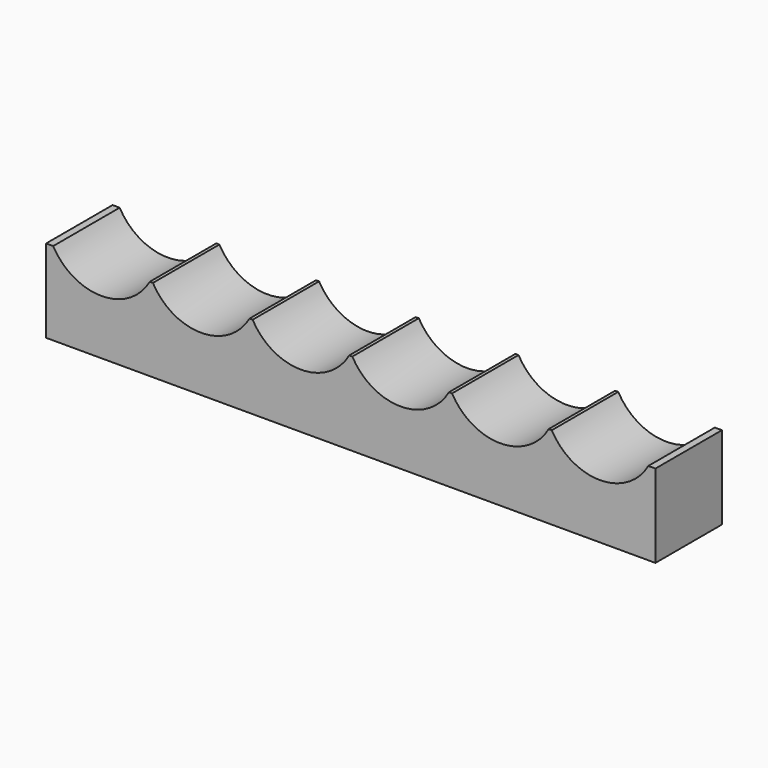
from build123d import *

# Parameters (mm, degrees)
F1_DEPTH = 19.05


with BuildPart() as f1:
    # F0 (on Front) → F1 (new body)
    with BuildSketch(Plane.XZ):
        with BuildLine():
            Line((-56.790875, 9.525), (-58.42, 9.525))
            Line((-58.42, 9.525), (-58.42, -9.525))
            Line((-58.42, -9.525), (81.28, -9.525))
            Line((81.28, -9.525), (81.28, 9.525))
            Line((81.28, 9.525), (79.650875, 9.525))
            ThreePointArc((79.650875, 9.525), (68.58, 3.048), (57.509125, 9.525))
            Line((57.509125, 9.525), (56.790875, 9.525))
            ThreePointArc((56.790875, 9.525), (45.72, 3.048), (34.649125, 9.525))
            Line((34.649125, 9.525), (33.930875, 9.525))
            ThreePointArc((33.930875, 9.525), (22.86, 3.048), (11.789125, 9.525))
            Line((11.789125, 9.525), (11.070875, 9.525))
            ThreePointArc((11.070875, 9.525), (0, 3.048), (-11.070875, 9.525))
            Line((-11.070875, 9.525), (-11.789125, 9.525))
            ThreePointArc((-11.789125, 9.525), (-22.86, 3.048), (-33.930875, 9.525))
            Line((-33.930875, 9.525), (-34.649125, 9.525))
            ThreePointArc((-34.649125, 9.525), (-45.72, 3.048), (-56.790875, 9.525))
        make_face()
    extrude(amount=F1_DEPTH)


solid = f1.part
